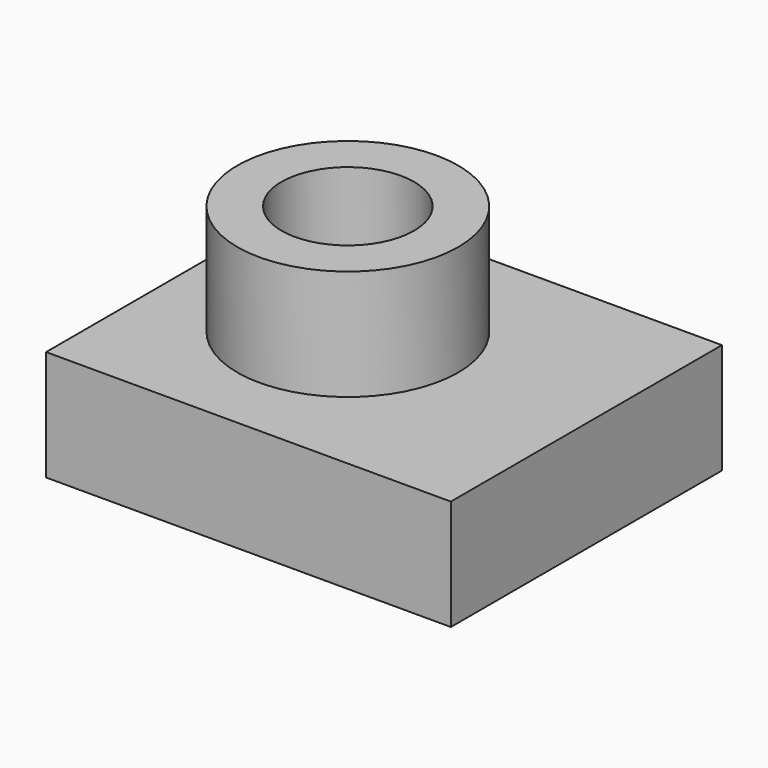
from build123d import *

# Parameters (mm, degrees)
F0_R     = 25
F1_DEPTH = 50
F2_R     = 15
F3_DEPTH = 50.001
F4_W     = 91.62021
F4_H     = 76.697219
F5_DEPTH = 25


with BuildPart() as f1:
    # F0 (on Top) → F1 (new body)
    with BuildSketch(Plane.XY):
        Circle(F0_R)
    extrude(amount=F1_DEPTH)

    # F2 (on face) → F3 (cut, through all)
    with BuildSketch(Plane.XY.offset(50)):
        Circle(F2_R)
    extrude(amount=-F3_DEPTH, mode=Mode.SUBTRACT)

    # F4 (on Top) → F5 (join)
    with BuildSketch(Plane.XY):
        with Locations((9.023199, -1.041138)):
            Rectangle(F4_W, F4_H)
    extrude(amount=F5_DEPTH)


solid = f1.part
